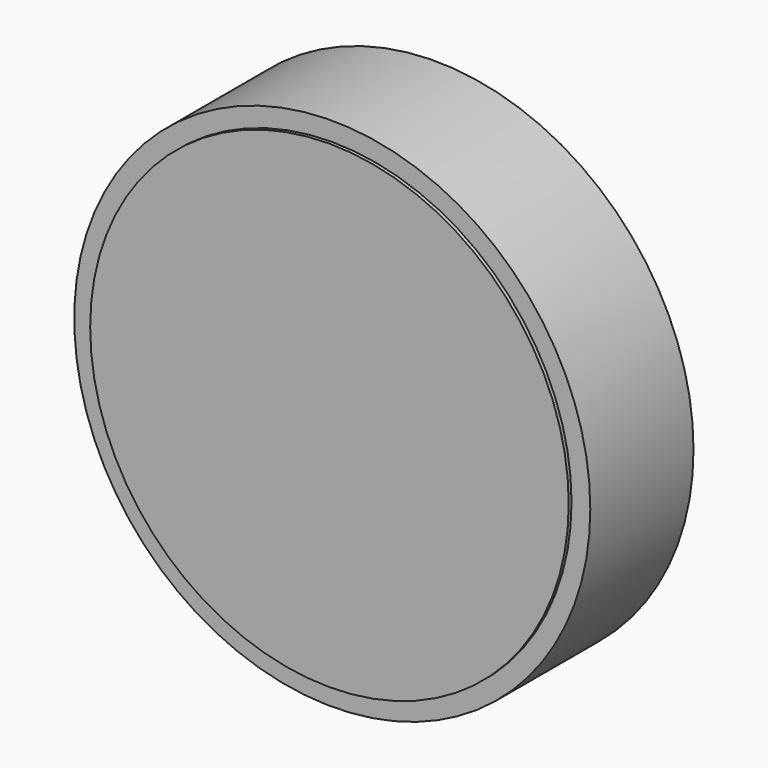
from build123d import *

# Parameters (mm, degrees)
F1_R      = 1828.8
F2_DEPTH  = 914.4
F3_R      = 1562.379676
F4_DEPTH  = 914.401
F5_R      = 462.988805
F6_DEPTH  = 914.4
F7_R      = 1695.828524
F8_DEPTH  = 25
F9_R      = 1704.525382
F10_DEPTH = 25


with BuildPart() as f2:
    # F1 (on face) → F2 (new body)
    with BuildSketch(Plane.XZ):
        Circle(F1_R)
    extrude(amount=F2_DEPTH)

    # F3 (on face) → F4 (cut, through all)
    with BuildSketch(Plane.XZ.offset(914.4)):
        Circle(F3_R)
    extrude(amount=-F4_DEPTH, mode=Mode.SUBTRACT)


with BuildPart() as f6:
    # F5 (on face) → F6 (new body)
    with BuildSketch(Plane.XZ):
        Circle(F5_R)
    extrude(amount=F6_DEPTH)


with BuildPart() as f8:
    # F7 (on face) → F8 (new body)
    with BuildSketch(Plane.XZ.offset(914.4)):
        Circle(F7_R)
    extrude(amount=F8_DEPTH)


with BuildPart() as f10:
    # F9 (on face) → F10 (new body)
    with BuildSketch(Plane.XZ):
        Circle(F9_R)
    extrude(amount=F10_DEPTH)


solid = Compound([f2.part, f6.part, f8.part, f10.part])
